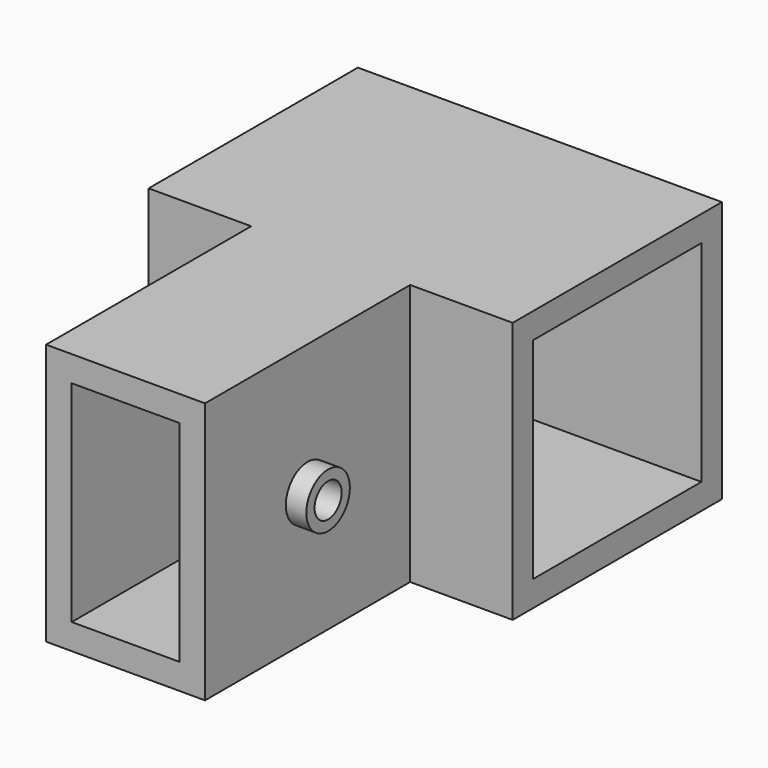
from build123d import *

# Parameters (mm, degrees)
F0_W      = 35.5
F0_H      = 25.5
F1_DEPTH  = 25.5
F2_W      = 20.5
F2_H      = 20.5
F3_DEPTH  = 35.5
F4_W      = 15.5
F4_H      = 25.5
F5_DEPTH  = 25
F6_W      = 20.5
F6_H      = 20.5
F7_DEPTH  = 38
F8_R      = 2.65
F9_DEPTH  = 2
F10_R     = 1.65
F11_DEPTH = 27.501
F12_R     = 2.7
F13_DEPTH = 2
F14_R     = 1.65
F15_DEPTH = 5.5
F16_W     = 2.5
F16_H     = 25
F17_DEPTH = 20.5
F18_W     = 20
F18_H     = 20.5
F19_DEPTH = 2.5
F20_W     = 2.5
F20_H     = 2.5
F21_DEPTH = 20.5
F22_W     = 7.5
F22_H     = 20.5
F23_DEPTH = 2.5
F24_W     = 10
F24_H     = 20.5
F25_DEPTH = 2.5
F26_W     = 10
F26_H     = 20.5
F27_DEPTH = 2.5
F28_W     = 9
F28_H     = 20.5
F28_W_2   = 8.5
F29_DEPTH = 2.5


with BuildPart() as f1:
    # F0 (on Front) → F1 (new body)
    with BuildSketch(Plane.XZ):
        Rectangle(F0_W, F0_H)
    extrude(amount=F1_DEPTH)

    # F2 (on face) → F3 (cut)
    with BuildSketch(Plane(origin=(-17.75, 0, 0), x_dir=(0, -1, 0), z_dir=(-1, 0, 0))):
        with Locations((12.75, 0)):
            Rectangle(F2_W, F2_H)
    extrude(amount=-F3_DEPTH, mode=Mode.SUBTRACT)

    # F4 (on face) → F5 (join)
    with BuildSketch(Plane.XZ.offset(25.5)):
        Rectangle(F4_W, F4_H)
    extrude(amount=F5_DEPTH)

    # F6 (on face) → F7 (cut)
    with BuildSketch(Plane.XZ.offset(50.5)):
        with Locations((-5, 0)):
            Rectangle(F6_W, F6_H)
    extrude(amount=-F7_DEPTH, mode=Mode.SUBTRACT)

    # F8 (on face) → F9 (join)
    with BuildSketch(Plane.YZ.offset(7.75)):
        with Locations((-38, 0)):
            Circle(F8_R)
    extrude(amount=F9_DEPTH)

    # F10 (on face) → F11 (cut, through all)
    with BuildSketch(Plane.YZ.offset(9.75)):
        with Locations((-38, 0)):
            Circle(F10_R)
    extrude(amount=-F11_DEPTH, mode=Mode.SUBTRACT)

    # F12 (on face) → F13 (join)
    with BuildSketch(Plane(origin=(0, 0, 0), x_dir=(-1, 0, 0), z_dir=(0, 1, 0))):
        Circle(F12_R)
    extrude(amount=F13_DEPTH)

    # F14 (on face) → F15 (cut)
    with BuildSketch(Plane(origin=(0, 2, 0), x_dir=(-1, 0, 0), z_dir=(0, 1, 0))):
        Circle(F14_R)
    extrude(amount=-F15_DEPTH, mode=Mode.SUBTRACT)

    # F16 (on face) → F17 (join)
    with BuildSketch(Plane.XY.offset(-10.25)):
        with Locations((-6.5, -38)):
            Rectangle(F16_W, F16_H)
    extrude(amount=F17_DEPTH)

    # F18 (on face) → F19 (cut)
    with BuildSketch(Plane(origin=(-7.75, 0, 0), x_dir=(0, -1, 0), z_dir=(-1, 0, 0))):
        with Locations((38, 0)):
            Rectangle(F18_W, F18_H)
    extrude(amount=-F19_DEPTH, mode=Mode.SUBTRACT)

    # F20 (on face) → F21 (join)
    with BuildSketch(Plane.XY.offset(-10.25)):
        with Locations((-6.5, -38.25)):
            Rectangle(F20_W, F20_H)
    extrude(amount=F21_DEPTH)

    # F22 (on face) → F23 (cut)
    with BuildSketch(Plane.XZ.offset(25.5)):
        with Locations((11.5, 0)):
            Rectangle(F22_W, F22_H)
    extrude(amount=-F23_DEPTH, mode=Mode.SUBTRACT)

    # F24 (on face) → F25 (join)
    with BuildSketch(Plane.XZ.offset(25.5)):
        with Locations((-10.25, 0)):
            Rectangle(F24_W, F24_H)
    extrude(amount=-F25_DEPTH)

    # F26 (on face) → F27 (join)
    with BuildSketch(Plane.XZ.offset(25.5)):
        with Locations((10.25, 0)):
            Rectangle(F26_W, F26_H)
    extrude(amount=-F27_DEPTH)

    # F28 (on face) → F29 (join)
    with BuildSketch(Plane(origin=(-7.75, 0, 0), x_dir=(0, -1, 0), z_dir=(-1, 0, 0))):
        with Locations((32.5, 0)):
            Rectangle(F28_W, F28_H)
        with Locations((43.75, 0)):
            Rectangle(F28_W_2, F28_H)
    extrude(amount=-F29_DEPTH)


solid = f1.part
